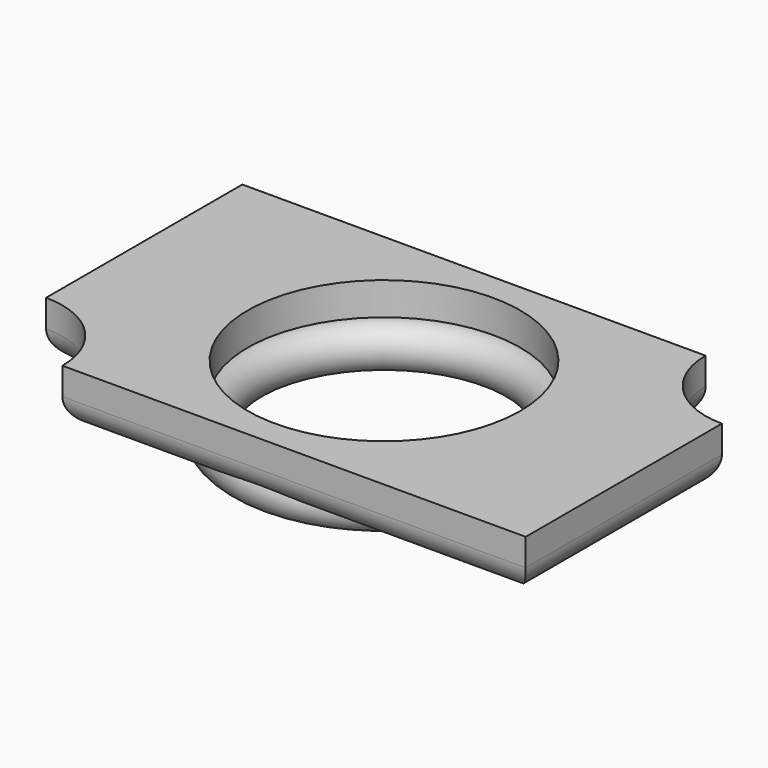
from build123d import *

# Parameters (mm, degrees)
F0_W     = 127
F0_H     = 76.2
F1_DEPTH = 12.7
F2_R     = 31.75
F3_DEPTH = 12.701
F4_R     = 5.08
F6_R     = 6.35


with BuildPart() as f1:
    # F0 (on Top) → F1 (new body)
    with BuildSketch(Plane.XY):
        Rectangle(F0_W, F0_H)
    extrude(amount=F1_DEPTH)

    # F2 (on face) → F3 (cut, through all)
    with BuildSketch(Plane.XY.offset(12.7)):
        with BuildLine():
            ThreePointArc((-44.45, -38.1), (-50.0296158184, -24.6296158184), (-63.5, -19.05))
            Line((-63.5, -19.05), (-63.5, -38.1))
            Line((-63.5, -38.1), (-44.45, -38.1))
        make_face()
        Circle(F2_R)
        with BuildLine():
            Line((63.5, 38.1), (44.45, 38.1))
            ThreePointArc((44.45, 38.1), (50.0296158184, 24.6296158184), (63.5, 19.05))
            Line((63.5, 19.05), (63.5, 38.1))
        make_face()
    extrude(amount=-F3_DEPTH, mode=Mode.SUBTRACT)

    # F6
    f6_edges = [f1.edges().sort_by_distance(p)[0] for p in [
        (9.525, -38.1, 0),
        (63.5, -9.525, 0),
        (50.029616, 24.629616, 0),
        (-9.525, 38.1, 0),
        (-63.5, 9.525, 0),
        (-50.029616, -24.629616, 0),
    ]]
    fillet(f6_edges, radius=F6_R)


with BuildPart() as f5:
    # F4 (on Right) → F5 (revolve)
    with BuildSketch(Plane.YZ):
        with Locations((-31.75, 0)):
            Circle(F4_R)
    revolve(axis=Axis((0, 0, 38.1), (0, 0, 1)))


solid = Compound([f1.part, f5.part])
